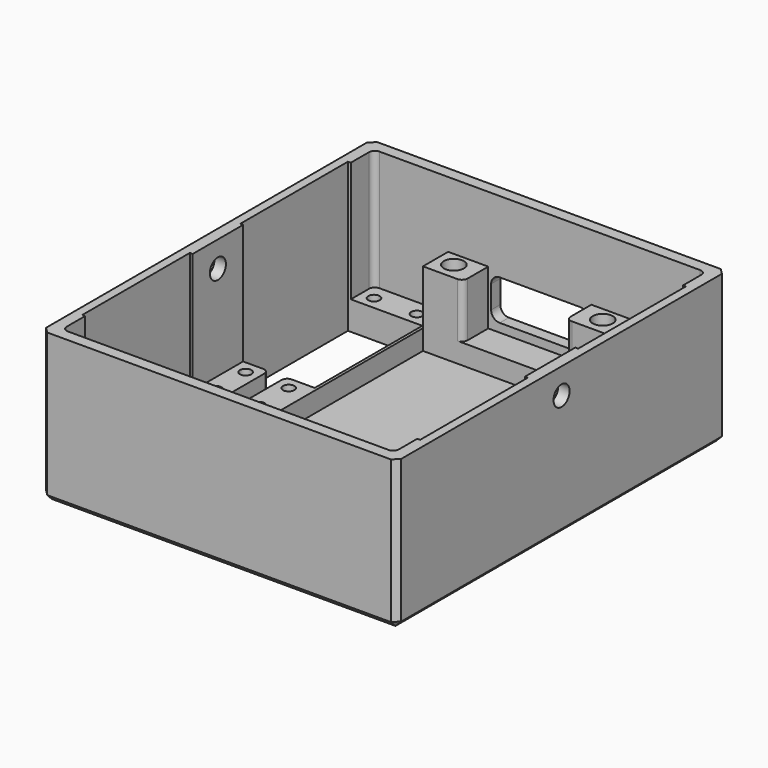
from build123d import *

# Parameters (mm, degrees)
CYLINDER018_R           = 1.75
CYLINDER018_DEPTH       = 68
CYLINDER018_PITCH_ANGLE = 90
SKETCH020_W             = 3
SKETCH020_H             = 13
PAD022_DEPTH            = 15
PAD020_DEPTH            = 6.1
CYLINDER002_R           = 1.75
CYLINDER002_DEPTH       = 30
CYLINDER003_R           = 1.75
CYLINDER003_DEPTH       = 30
CYLINDER001_R           = 1.75
CYLINDER001_DEPTH       = 30
CYLINDER_R              = 1.75
CYLINDER_DEPTH          = 30
BOX011_W                = 7
BOX011_H                = 6
BOX011_DEPTH            = 10
FILLET006_R             = 1
BOX008_W                = 32
BOX008_H                = 57
BOX008_DEPTH            = 27
SKETCH_R                = 1
SKETCH_W                = 13
SKETCH_H                = 23.5
PAD_DEPTH               = 40
BOX007_W                = 58
BOX007_H                = 68
BOX007_DEPTH            = 27
BOX001_W                = 62
BOX001_H                = 72
BOX001_DEPTH            = 26
FILLET007_R             = 1
CHAMFER_SIZE            = 1
FILLET008_R             = 1


with BuildPart() as cilindro:
    # Cylinder018 → Cylinder018 (new body)
    with BuildSketch(Plane.XY):
        Circle(CYLINDER018_R)
    extrude(amount=CYLINDER018_DEPTH)


with BuildPart() as cilindro_1:
    # Cylinder018 pitch: moved
    add(cilindro.part.rotate(Axis((0, 0, 0), (0, 1, 0)), CYLINDER018_PITCH_ANGLE))


with BuildPart() as cilindro_2:
    # Cylinder018 placement: moved
    add(cilindro_1.part.moved(Location((-34, 0, 18))))


with BuildPart() as cono:
    # Cone → Cone (revolve)
    with BuildSketch(Plane(origin=(-13, -31.5, -4), x_dir=(1, 0, 0), z_dir=(0, -1, 0))):
        Polygon((0, 0), (3.8, 0), (1, 3), (0, 3), align=None)
    revolve(axis=Axis((-13, -31.5, -4), (0, 0, 1)))


with BuildPart() as part_mirroring029:
    # Part__Mirroring029: instance of Cono
    add(cono.part.mirror(Plane(origin=(0, 0, 0), x_dir=(0, -1, 0), z_dir=(1, 0, 0))))


with BuildPart() as part_mirroring031:
    # Part__Mirroring031: instance of Part__Mirroring029
    add(part_mirroring029.part.mirror(Plane(origin=(0, 0, 0), x_dir=(1, 0, 0), z_dir=(0, 1, 0))))


with BuildPart() as fusion015:
    # Part__Mirroring030: instance of Cono
    add(cono.part.mirror(Plane(origin=(0, 0, 0), x_dir=(1, 0, 0), z_dir=(0, 1, 0))))

    # Fusion015: union Part__Mirroring031, Cono, Part__Mirroring029
    add(part_mirroring031.part)
    add(cono.part)
    add(part_mirroring029.part)


with BuildPart() as pad022:
    # Sketch020 → Pad022 (new body)
    with BuildSketch(Plane.XY.offset(10)):
        with Locations((-23, 0)):
            Rectangle(SKETCH020_W, SKETCH020_H)
        with Locations((23, 0)):
            Rectangle(SKETCH020_W, SKETCH020_H)
    extrude(amount=-PAD022_DEPTH)


with BuildPart() as pad020:
    # Sketch017 → Pad020 (new body)
    with BuildSketch(Plane(origin=(0, 40, 0), x_dir=(-1, 0, 0), z_dir=(0, 1, 0))):
        with BuildLine():
            Line((-7, 10), (7, 10))
            ThreePointArc((8.5, 8.5), (8.06066, 9.56066), (7, 10))
            Line((8.5, 8.5), (8.5, 4.5))
            ThreePointArc((7, 3), (8.06066, 3.43934), (8.5, 4.5))
            Line((7, 3), (-7, 3))
            ThreePointArc((-8.5, 4.5), (-8.06066, 3.43934), (-7, 3))
            Line((-8.5, 4.5), (-8.5, 8.5))
            ThreePointArc((-7, 10), (-8.06066, 9.56066), (-8.5, 8.5))
        make_face()
    extrude(amount=-PAD020_DEPTH)


with BuildPart() as cilindro002:
    # Cylinder002 → Cylinder002 (new body)
    with BuildSketch(Plane(origin=(-13, -31.5, -10), x_dir=(1, 0, 0), z_dir=(0, 0, 1))):
        Circle(CYLINDER002_R)
    extrude(amount=CYLINDER002_DEPTH)


with BuildPart() as cilindro003:
    # Cylinder003 → Cylinder003 (new body)
    with BuildSketch(Plane(origin=(13, -31.5, -10), x_dir=(1, 0, 0), z_dir=(0, 0, 1))):
        Circle(CYLINDER003_R)
    extrude(amount=CYLINDER003_DEPTH)


with BuildPart() as cilindro001:
    # Cylinder001 → Cylinder001 (new body)
    with BuildSketch(Plane(origin=(13, 31.5, -10), x_dir=(1, 0, 0), z_dir=(0, 0, 1))):
        Circle(CYLINDER001_R)
    extrude(amount=CYLINDER001_DEPTH)


with BuildPart() as fusion012:
    # Cylinder → Cylinder (new body)
    with BuildSketch(Plane(origin=(-13, 31.5, -10), x_dir=(1, 0, 0), z_dir=(0, 0, 1))):
        Circle(CYLINDER_R)
    extrude(amount=CYLINDER_DEPTH)

    # Fusion012: union Cilindro002, Cilindro003, Cilindro001
    add(cilindro002.part)
    add(cilindro003.part)
    add(cilindro001.part)


with BuildPart() as fillet006:
    # Box011 → Box011 (new body)
    with BuildSketch(Plane(origin=(-16, 28.5, 0), x_dir=(1, 0, 0), z_dir=(0, 0, 1))):
        with Locations((3.5, 3)):
            Rectangle(BOX011_W, BOX011_H)
    extrude(amount=BOX011_DEPTH)

    # Fillet006
    fillet006_edges = [fillet006.edges().sort_by_distance(p)[0] for p in [
        (-9, 28.5, 5),
    ]]
    fillet(fillet006_edges, radius=FILLET006_R)


with BuildPart() as part_mirroring027:
    # Part__Mirroring027: instance of Fillet006
    add(fillet006.part.mirror(Plane(origin=(0, 0, 0), x_dir=(1, 0, 0), z_dir=(0, 1, 0))))


with BuildPart() as part_mirroring026:
    # Part__Mirroring026: instance of Fillet006
    add(fillet006.part.mirror(Plane(origin=(0, 0, 0), x_dir=(0, -1, 0), z_dir=(1, 0, 0))))


with BuildPart() as part_mirroring028:
    # Part__Mirroring028: instance of Part__Mirroring026
    add(part_mirroring026.part.mirror(Plane(origin=(0, 0, 0), x_dir=(1, 0, 0), z_dir=(0, 1, 0))))


with BuildPart() as fusion013:
    # Fusion013 base: copy of Part__Mirroring026
    add(part_mirroring026.part)

    # Fusion013: union Fillet006, Part__Mirroring027, Part__Mirroring028
    add(fillet006.part)
    add(part_mirroring027.part)
    add(part_mirroring028.part)


with BuildPart() as fusion013_1:
    # Fusion013 placement: moved
    add(fusion013.part.moved(Location((0, 0, 1))))


with BuildPart() as cubo008:
    # Box008 → Box008 (new body)
    with BuildSketch(Plane(origin=(-16, -28.5, -2), x_dir=(1, 0, 0), z_dir=(0, 0, 1))):
        with Locations((16, 28.5)):
            Rectangle(BOX008_W, BOX008_H)
    extrude(amount=BOX008_DEPTH)


with BuildPart() as pad:
    # Sketch → Pad (new body)
    with BuildSketch(Plane(origin=(0, 0, -10), x_dir=(1, 0, 0), z_dir=(0, 0, -1))):
        with Locations((-26.75, 31.25)):
            Circle(SKETCH_R)
        with Locations((-19.25, 31.25)):
            Circle(SKETCH_R)
        with Locations((-26.75, 3.25)):
            Circle(SKETCH_R)
        with Locations((-19.25, 3.25)):
            Circle(SKETCH_R)
        with Locations((-26.75, -3.25)):
            Circle(SKETCH_R)
        with Locations((-19.25, -3.25)):
            Circle(SKETCH_R)
        with Locations((-26.75, -31.25)):
            Circle(SKETCH_R)
        with Locations((-19.25, -31.25)):
            Circle(SKETCH_R)
        with Locations((19.25, 31.25)):
            Circle(SKETCH_R)
        with Locations((26.75, 31.25)):
            Circle(SKETCH_R)
        with Locations((19.25, 3.25)):
            Circle(SKETCH_R)
        with Locations((26.75, 3.25)):
            Circle(SKETCH_R)
        with Locations((19.25, -3.25)):
            Circle(SKETCH_R)
        with Locations((26.75, -3.25)):
            Circle(SKETCH_R)
        with Locations((19.25, -31.25)):
            Circle(SKETCH_R)
        with Locations((26.75, -31.25)):
            Circle(SKETCH_R)
        with Locations((-23, 17.25)):
            Rectangle(SKETCH_W, SKETCH_H)
        with Locations((23, 17.25)):
            Rectangle(SKETCH_W, SKETCH_H)
        with Locations((-23, -17.25)):
            Rectangle(SKETCH_W, SKETCH_H)
        with Locations((23, -17.25)):
            Rectangle(SKETCH_W, SKETCH_H)
    extrude(amount=-PAD_DEPTH)


with BuildPart() as cubo007:
    # Box007 → Box007 (new body)
    with BuildSketch(Plane(origin=(-29, -34, 1.5), x_dir=(1, 0, 0), z_dir=(0, 0, 1))):
        with Locations((29, 34)):
            Rectangle(BOX007_W, BOX007_H)
    extrude(amount=BOX007_DEPTH)


with BuildPart() as obj1:
    # Box001 → Box001 (new body)
    with BuildSketch(Plane(origin=(-31, -36, -3.5), x_dir=(1, 0, 0), z_dir=(0, 0, 1))):
        with Locations((31, 36)):
            Rectangle(BOX001_W, BOX001_H)
    extrude(amount=BOX001_DEPTH)

    # Cut: cut Cubo007
    add(cubo007.part, mode=Mode.SUBTRACT)

    # Cut001: cut Pad
    add(pad.part, mode=Mode.SUBTRACT)

    # Cut002: cut Cubo008
    add(cubo008.part, mode=Mode.SUBTRACT)

    # Fusion014: union Fusion013
    add(fusion013_1.part)

    # Cut021: cut Fusion012
    add(fusion012.part, mode=Mode.SUBTRACT)

    # Cut022: cut Pad020
    add(pad020.part, mode=Mode.SUBTRACT)

    # Fillet007
    fillet007_edges = [obj1.edges().sort_by_distance(p)[0] for p in [
        (29, -34, 12),
        (29, 34, 12),
        (-29, 34, 12),
        (-29, -34, 12),
    ]]
    fillet(fillet007_edges, radius=FILLET007_R)

    # Chamfer
    chamfer_edges = [obj1.edges().sort_by_distance(p)[0] for p in [
        (-31, -36, 9.5),
        (-31, 36, 9.5),
        (-31, 0, -3.5),
        (0, 36, -3.5),
        (31, 36, 9.5),
        (0, -36, -3.5),
        (31, -36, 9.5),
        (31, 0, -3.5),
    ]]
    chamfer(chamfer_edges, length=CHAMFER_SIZE)

    # Cut024: cut Pad022
    add(pad022.part, mode=Mode.SUBTRACT)

    # Fillet008
    fillet008_edges = [obj1.edges().sort_by_distance(p)[0] for p in [
        (24.5, -5.5, -1),
        (24.5, 5.5, -1),
        (-24.5, -5.5, -1),
        (-24.5, 5.5, -1),
        (21.5, 5.5, -1),
        (21.5, -5.5, -1),
        (-21.5, -5.5, -1),
        (-21.5, 5.5, -1),
    ]]
    fillet(fillet008_edges, radius=FILLET008_R)

    # Cut025: cut Fusion015
    add(fusion015.part, mode=Mode.SUBTRACT)

    # Cut026: cut Cilindro
    add(cilindro_2.part, mode=Mode.SUBTRACT)


solid = obj1.part
